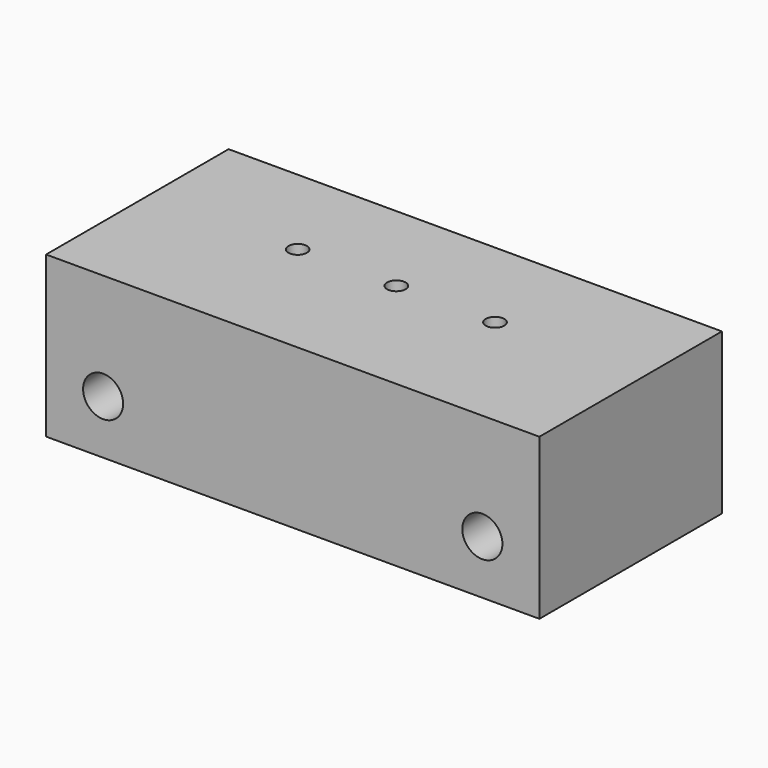
from build123d import *

# Parameters (mm, degrees)
SKETCH_W        = 80
SKETCH_H        = 26
PAD_DEPTH       = 37
SKETCH001_R     = 3.25
POCKET_DEPTH    = 37.501
SKETCH002_R     = 1.5
POCKET001_DEPTH = 26.001


with BuildPart() as part:
    # Sketch → Pad (new body)
    with BuildSketch(Plane.XZ):
        with Locations((0, 13)):
            Rectangle(SKETCH_W, SKETCH_H)
    extrude(amount=PAD_DEPTH)

    # Sketch001 → Pocket (cut, through all)
    with BuildSketch(Plane.XZ.offset(37.5)):
        with Locations((-30.75, 8.75)):
            Circle(SKETCH001_R)
        with Locations((30.75, 8.75)):
            Circle(SKETCH001_R)
    extrude(amount=-POCKET_DEPTH, mode=Mode.SUBTRACT)

    # Sketch002 (on Face6 of Pocket) → Pocket001 (cut, through all)
    with BuildSketch(Plane(origin=(0, 0, 26), x_dir=(-1, 0, 0), z_dir=(0, 0, 1))):
        with Locations((-16, 16)):
            Circle(SKETCH002_R)
        with Locations((16, 16)):
            Circle(SKETCH002_R)
        with Locations((0, 16)):
            Circle(SKETCH002_R)
    extrude(amount=-POCKET001_DEPTH, mode=Mode.SUBTRACT)


solid = part.part
